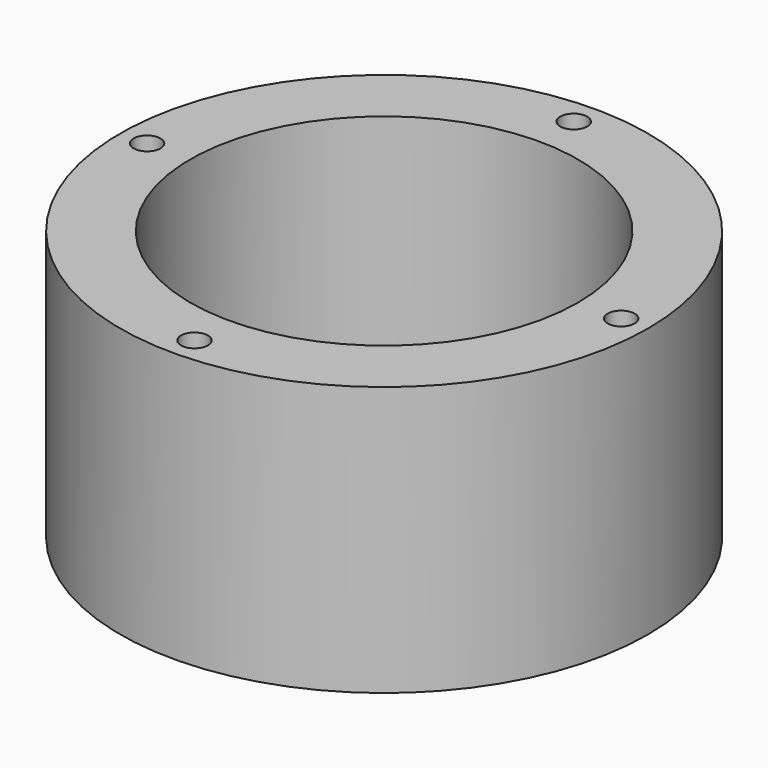
from build123d import *

# Parameters (mm, degrees)
F0_R     = 49
F0_R_2   = 36
F1_DEPTH = 25
F3_D     = 5
F3_DEPTH = 15
F3_TIP   = 1.5021515476


with BuildPart() as f1:
    # F0 (on Top) → F1 (new body, symmetric)
    with BuildSketch(Plane.XY):
        Circle(F0_R)
        Circle(F0_R_2, mode=Mode.SUBTRACT)
    extrude(amount=F1_DEPTH, both=True)

    # F3
    with Locations(Plane.XY.offset(25)):
        with Locations((0, 44), (-44, 0), (0, -44), (44, 0)):
            Hole(F3_D / 2, depth=F3_DEPTH)
            with Locations((0, 0, -(F3_DEPTH + F3_TIP / 2))):  # 118° drill point
                Cone(0, F3_D / 2, F3_TIP, mode=Mode.SUBTRACT)


solid = f1.part
